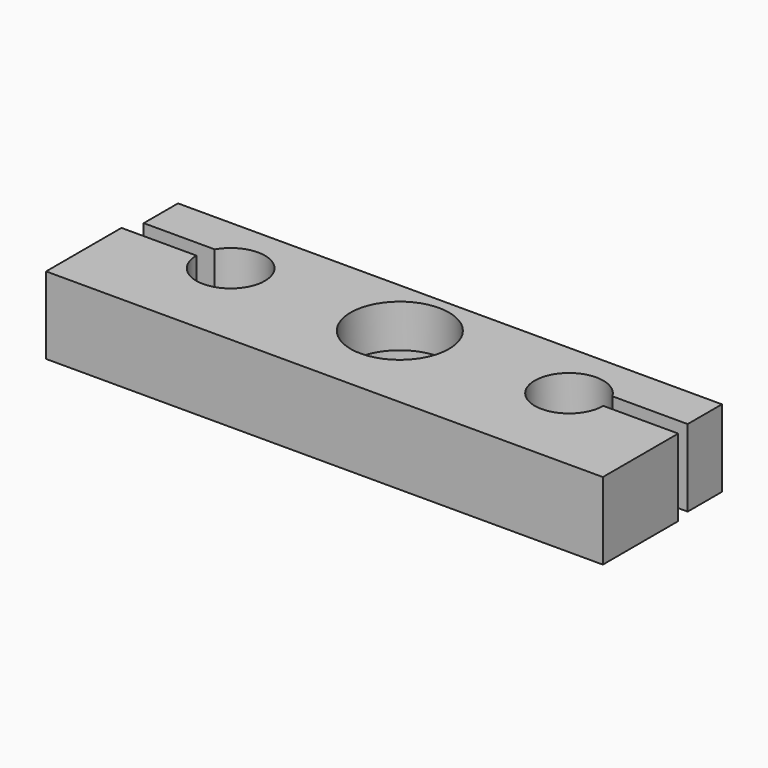
from build123d import *

# Parameters (mm, degrees)
F1_DEPTH = 8
F2_DEPTH = 10
F3_DEPTH = 10
F4_D     = 23
F5_DEPTH = 1
F6_DEPTH = 2


with BuildPart() as f1:
    # F0 (on Top) → F1 (new body)
    with BuildSketch(Plane.XY):
        with BuildLine():
            Line((-49.4748241749, 32.4677416086), (-114.4748240411, 32.4677416086))
            Line((-114.4748240411, 32.4677416086), (-114.4748240411, 22.4677416086))
            Line((-114.4748240411, 22.4677416086), (-95.9030272714, 22.4677416086))
            ThreePointArc((-95.9030272714, 22.4677416086), (-86.9042716803, 26.1951482189), (-80.9748240411, 18.4677416086))
            ThreePointArc((-80.9748240411, 18.4677416086), (-88.9748240411, 10.4677416086), (-96.9748240411, 18.4677416086))
            Line((-96.9748240411, 18.4677416086), (-114.4748240411, 18.4677416086))
            Line((-114.4748240411, 18.4677416086), (-114.4748240411, -3.5322583914))
            Line((-114.4748240411, -3.5322583914), (15.5251759589, -3.5322583914))
            Line((15.5251759589, -3.5322583914), (15.5251759589, 18.4677416086))
            Line((15.5251759589, 18.4677416086), (-1.9748240411, 18.4677416086))
            ThreePointArc((-1.9748240411, 18.4677416086), (-17.7022306514, 16.3971892478), (-3.0466208109, 22.4677416086))
            Line((-3.0466208109, 22.4677416086), (15.5251759589, 22.4677416086))
            Line((15.5251759589, 22.4677416086), (15.5251759589, 32.4677416086))
            Line((15.5251759589, 32.4677416086), (-49.4748241749, 32.4677416086))
        make_face()
        with BuildLine():
            ThreePointArc((-50.7033488202, 32.4137348277), (-50.0896797547, 32.4542333936), (-49.4748241749, 32.4677416086))
            ThreePointArc((-49.4748241749, 32.4677416086), (-48.8599684612, 32.4542333995), (-48.246299262, 32.4137348277))
            ThreePointArc((-48.246299262, 32.4137348277), (-39.1501122556, 27.9229161996), (-35.4748240411, 18.4677416086))
            ThreePointArc((-35.4748240411, 18.4677416086), (-58.9299986321, 8.1430298231), (-50.7033488202, 32.4137348277))
        make_face(mode=Mode.SUBTRACT)
        with BuildLine():
            ThreePointArc((-48.246299262, 32.4137348277), (-48.8599684612, 32.4542333995), (-49.4748241749, 32.4677416086))
            ThreePointArc((-49.4748241749, 32.4677416086), (-50.0896797547, 32.4542333936), (-50.7033488202, 32.4137348277))
            Line((-50.7033488202, 32.4137348277), (-48.246299262, 32.4137348277))
        make_face()
    extrude(amount=-F1_DEPTH)

    # F3 (add): a face of the model
    f3_faces = [f1.faces().sort_by_distance(p)[0] for p in [
        (6.7751759589, 17.1188161103, 0),
    ]]


with BuildPart() as f2:
    # F0 (on Top) → F2 (new body)
    with BuildSketch(Plane.XY):
        with BuildLine():
            ThreePointArc((-35.4748240411, 18.4677416086), (-39.1501122556, 27.9229161996), (-48.246299262, 32.4137348277))
            Line((-48.246299262, 32.4137348277), (-50.7033488202, 32.4137348277))
            ThreePointArc((-50.7033488202, 32.4137348277), (-58.9299986321, 8.1430298231), (-35.4748240411, 18.4677416086))
        make_face()
    extrude(amount=F2_DEPTH)


with BuildPart() as f1_1:
    add(f1.part)

    add(f2.part)  # F3 merges F2
    extrude(f3_faces, amount=F3_DEPTH)

    # F4 (through all)
    with Locations(Plane(origin=(0, 0, 0), x_dir=(1, 0, 0), z_dir=(0, 0, -1))):
        with Locations((-49.4748240411, -18.4677416086)):
            Hole(F4_D / 2)

    # F5 (cut, symmetric): faces of the model
    f5_faces = [f1_1.faces().sort_by_distance(p)[0] for p in [
        (15.5251759589, 27.4677416086, 1),
        (15.5251759589, 27.4677416086, 1),
    ]]
    extrude(f5_faces, amount=F5_DEPTH, both=True, mode=Mode.SUBTRACT)

    # F6 (cut): faces of the model
    f6_faces = [f1_1.faces().sort_by_distance(p)[0] for p in [
        (-114.4748240411, 27.4677416086, 1),
        (-114.4748240411, 27.4677416086, 1),
    ]]
    extrude(f6_faces, amount=-F6_DEPTH, mode=Mode.SUBTRACT)


solid = f1_1.part
